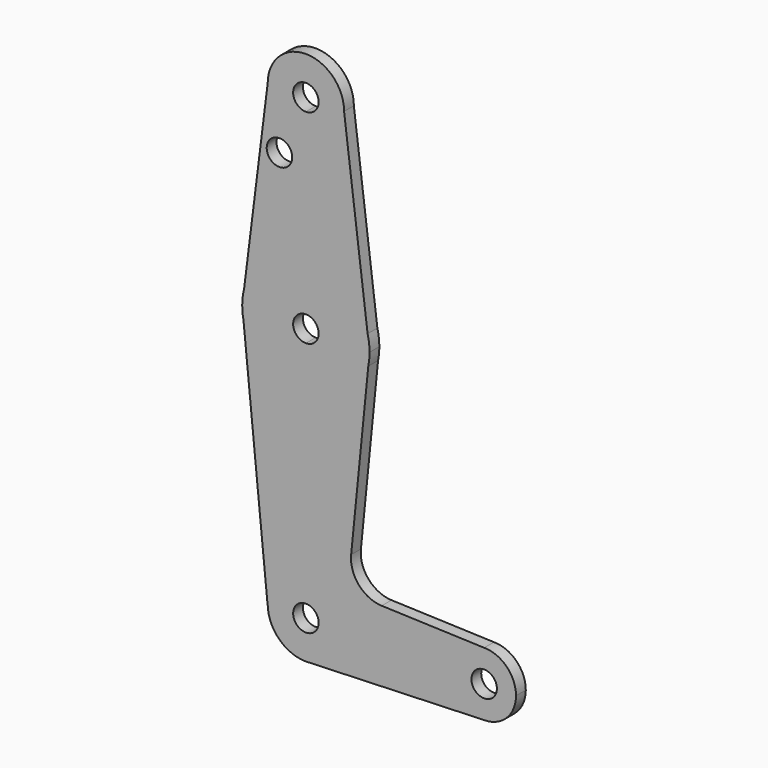
from build123d import *

# Parameters (mm, degrees)
F0_R     = 3.175
F1_DEPTH = 3.048


with BuildPart() as f1:
    # F0 (on Front) → F1 (new body)
    with BuildSketch(Plane.XZ):
        with BuildLine():
            Line((0.6794904459, -9.5007324841), (0, -9.525))
            ThreePointArc((0, -9.525), (0.3399618281, -9.5189311877), (0.6794904459, -9.5007324841))
        make_face()
        with BuildLine():
            Line((15.3865384615, 67.4076923077), (15.875, 63.5))
            ThreePointArc((15.875, 63.5), (15.7524112928, 65.4690514116), (15.3865384615, 67.4076923077))
        make_face()
        with BuildLine():
            ThreePointArc((-15.3865384615, 67.4076923077), (-15.7524112928, 65.4690514116), (-15.875, 63.5))
            Line((-15.875, 63.5), (-15.3865384615, 67.4076923077))
        make_face()
        with BuildLine():
            ThreePointArc((-15.875, 63.5), (-15.7973641936, 61.9319089516), (-15.5652161214, 60.3791552277))
            Line((-15.5652161214, 60.3791552277), (-15.875, 63.5))
        make_face()
        with BuildLine():
            Line((15.875, 63.5), (15.5606435644, 60.3564356436))
            ThreePointArc((15.5606435644, 60.3564356436), (15.7962153946, 61.9203784605), (15.875, 63.5))
        make_face()
        with BuildLine():
            Line((-9.5718104076, 0), (-9.525, 0))
            ThreePointArc((-9.525, 0), (-6.7351920908, 6.7351920908), (0, 9.525))
            Line((0, 9.525), (0, 47.625))
            ThreePointArc((0, 47.625), (-10.0616155323, 51.22076884), (-15.5652161214, 60.3791552277))
            Line((-15.5652161214, 60.3791552277), (-9.5718104076, 0))
        make_face()
        with BuildLine():
            ThreePointArc((9.525, 0), (6.9712901065, -6.4905114784), (0.6794904459, -9.5007324841))
            Line((0.6794904459, -9.5007324841), (44.45, -7.9375))
            ThreePointArc((44.45, -7.9375), (38.8373399243, -5.6126600757), (36.5125, 0))
            Line((36.5125, 0), (9.525, 0))
        make_face()
        with BuildLine():
            ThreePointArc((36.5125, 0), (38.8373399243, -5.6126600757), (44.45, -7.9375))
            ThreePointArc((44.45, -7.9375), (50.0626600757, -5.6126600757), (52.3875, 0))
            ThreePointArc((52.3875, 0), (50.0626600757, 5.6126600757), (44.45, 7.9375))
            ThreePointArc((44.45, 7.9375), (38.8373399243, 5.6126600757), (36.5125, 0))
        make_face()
        with BuildLine():
            ThreePointArc((47.625, 0), (44.45, -3.175), (41.275, 0))
            ThreePointArc((41.275, 0), (44.45, 3.175), (47.625, 0))
        make_face(mode=Mode.SUBTRACT)
        with BuildLine():
            ThreePointArc((9.525, 0), (6.7351920908, 6.7351920908), (0, 9.525))
            Line((0, 9.525), (0, 3.175))
            ThreePointArc((0, 3.175), (2.2450640303, 2.2450640303), (3.175, 0))
            Line((3.175, 0), (9.525, 0))
        make_face()
        with BuildLine():
            Line((0, 60.325), (0, 47.625))
            ThreePointArc((0, 47.625), (10.0526499203, 51.2134278751), (15.5606435644, 60.3564356436))
            Line((15.5606435644, 60.3564356436), (15.875, 63.5))
            Line((15.875, 63.5), (15.3865384615, 67.4076923077))
            ThreePointArc((15.3865384615, 67.4076923077), (9.7463072395, 76.0309664508), (0, 79.375))
            Line((0, 79.375), (0, 66.675))
            ThreePointArc((0, 66.675), (2.2450640303, 65.7450640303), (3.175, 63.5))
            ThreePointArc((3.175, 63.5), (2.2450640303, 61.2549359697), (0, 60.325))
        make_face()
        with BuildLine():
            ThreePointArc((0, 79.375), (9.7463072395, 76.0309664508), (15.3865384615, 67.4076923077))
            Line((15.3865384615, 67.4076923077), (9.525, 114.3))
            ThreePointArc((9.525, 114.3), (6.7351920908, 107.5648079092), (0, 104.775))
            Line((0, 104.775), (0, 79.375))
        make_face()
        with BuildLine():
            Line((-9.525, 114.3), (-15.3865384615, 67.4076923077))
            ThreePointArc((-15.3865384615, 67.4076923077), (-9.7463072395, 76.0309664508), (0, 79.375))
            Line((0, 79.375), (0, 104.775))
            ThreePointArc((0, 104.775), (-6.7351920908, 107.5648079092), (-9.525, 114.3))
        make_face()
        with Locations((-6.5923873335, 100.0252)):
            Circle(F0_R, mode=Mode.SUBTRACT)
        with BuildLine():
            Line((0, 47.625), (0, 9.525))
            ThreePointArc((0, 9.525), (6.7351920908, 6.7351920908), (9.525, 0))
            Line((9.525, 0), (36.5125, 0))
            ThreePointArc((36.5125, 0), (38.8373399243, 5.6126600757), (44.45, 7.9375))
            Line((44.45, 7.9375), (18.9105730062, 8.8496223926))
            ThreePointArc((18.9105730062, 8.8496223926), (13.2053552395, 11.5661923774), (11.2835831424, 17.5858314242))
            Line((11.2835831424, 17.5858314242), (15.5606435644, 60.3564356436))
            ThreePointArc((15.5606435644, 60.3564356436), (10.0526499203, 51.2134278751), (0, 47.625))
        make_face()
        with BuildLine():
            ThreePointArc((-15.5652161214, 60.3791552277), (-10.0616155323, 51.22076884), (0, 47.625))
            Line((0, 47.625), (0, 60.325))
            ThreePointArc((0, 60.325), (-3.175, 63.5), (0, 66.675))
            Line((0, 66.675), (0, 79.375))
            ThreePointArc((0, 79.375), (-9.7463072395, 76.0309664508), (-15.3865384615, 67.4076923077))
            Line((-15.3865384615, 67.4076923077), (-15.875, 63.5))
            Line((-15.875, 63.5), (-15.5652161214, 60.3791552277))
        make_face()
        with BuildLine():
            ThreePointArc((9.525, 114.3), (0, 123.825), (-9.525, 114.3))
            ThreePointArc((-9.525, 114.3), (-6.7351920908, 107.5648079092), (0, 104.775))
            ThreePointArc((0, 104.775), (6.7351920908, 107.5648079092), (9.525, 114.3))
        make_face()
        with BuildLine():
            ThreePointArc((3.175, 114.3), (2.2450640303, 112.0549359697), (0, 111.125))
            ThreePointArc((0, 111.125), (-2.2450640303, 116.5450640303), (3.175, 114.3))
        make_face(mode=Mode.SUBTRACT)
        with BuildLine():
            ThreePointArc((0, 9.525), (-6.7351920908, 6.7351920908), (-9.525, 0))
            ThreePointArc((-9.525, 0), (-6.7351920908, -6.7351920908), (0, -9.525))
            Line((0, -9.525), (0.6794904459, -9.5007324841))
            ThreePointArc((0.6794904459, -9.5007324841), (6.9712901065, -6.4905114784), (9.525, 0))
            Line((9.525, 0), (3.175, 0))
            ThreePointArc((3.175, 0), (-2.2450640303, -2.2450640303), (0, 3.175))
            Line((0, 3.175), (0, 9.525))
        make_face()
    extrude(amount=-F1_DEPTH)


solid = f1.part
